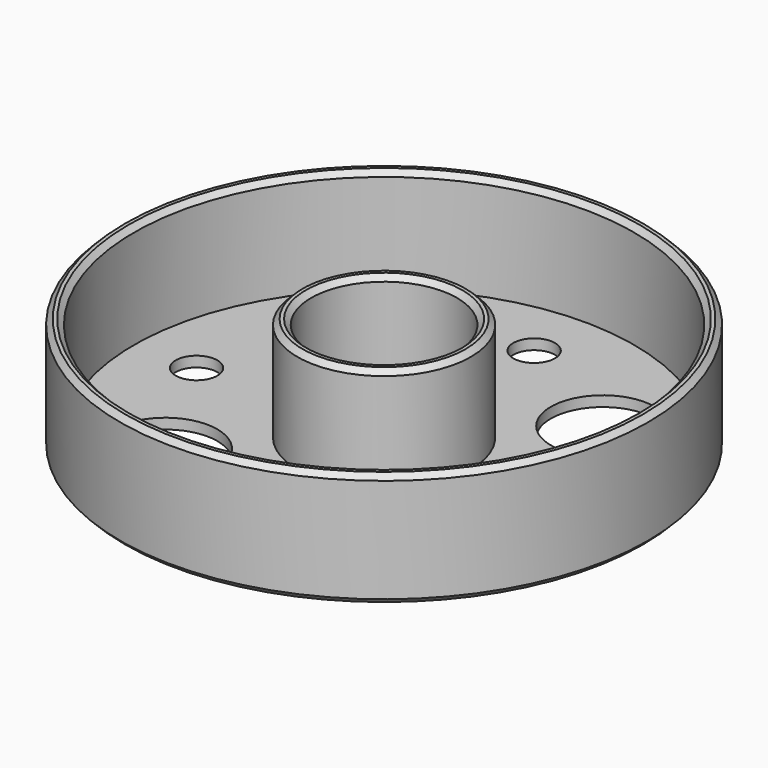
from build123d import *

# Parameters (mm, degrees)
F0_R     = 38
F0_R_2   = 7.5
F1_DEPTH = 1.5
F2_R     = 38
F2_R_2   = 36
F2_R_3   = 12.5
F2_R_4   = 10.5
F3_DEPTH = 15
F4_SIZE  = 0.75
F5_R     = 3
F6_DEPTH = 1.501


with BuildPart() as f1:
    # F0 (on Top) → F1 (new body)
    with BuildSketch(Plane.XY):
        Circle(F0_R)
        with Locations((-17.5, -17.5)):
            Circle(F0_R_2, mode=Mode.SUBTRACT)
        with Locations((17.5, -17.5)):
            Circle(F0_R_2, mode=Mode.SUBTRACT)
        with Locations((-17.5, 17.5)):
            Circle(F0_R_2, mode=Mode.SUBTRACT)
        Circle(F0_R_2, mode=Mode.SUBTRACT)
        with Locations((17.5, 17.5)):
            Circle(F0_R_2, mode=Mode.SUBTRACT)
    extrude(amount=F1_DEPTH)

    # F2 (on face) → F3 (join)
    with BuildSketch(Plane.XY.offset(1.5)):
        Circle(F2_R)
        Circle(F2_R_2, mode=Mode.SUBTRACT)
        Circle(F2_R_3)
        Circle(F2_R_4, mode=Mode.SUBTRACT)
    extrude(amount=F3_DEPTH)

    # F4
    f4_edges = [f1.edges().sort_by_distance(p)[0] for p in [
        (-38, 0, 0),
        (-38, 0, 16.5),
        (-36, 0, 16.5),
        (-12.5, 0, 16.5),
        (-10.5, 0, 16.5),
    ]]
    chamfer(f4_edges, length=F4_SIZE)

    # F5 (on face) → F6 (cut, through all)
    with BuildSketch(Plane.XY.offset(1.5)):
        with Locations((-27, 0)):
            Circle(F5_R)
        with Locations((0, -27)):
            Circle(F5_R)
        with Locations((27, 0)):
            Circle(F5_R)
        with Locations((0, 27)):
            Circle(F5_R)
    extrude(amount=-F6_DEPTH, mode=Mode.SUBTRACT)


solid = f1.part
